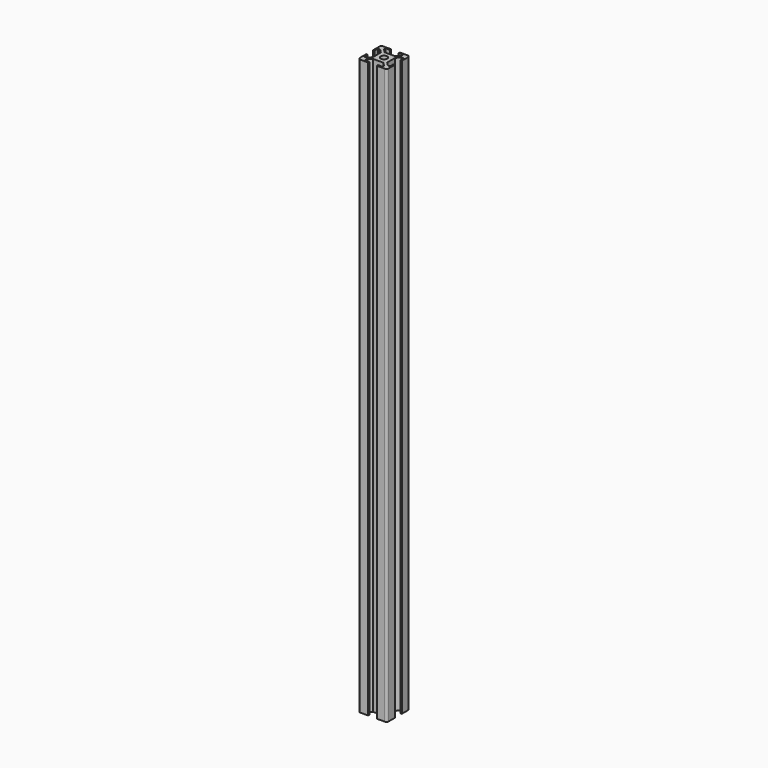
from build123d import *

# Parameters (mm, degrees)
SKETCH_R  = 2.25
PAD_DEPTH = 400
FILLET_R  = 1.5


with BuildPart() as part:
    # Sketch → Pad (new body)
    with BuildSketch(Plane(origin=(0, 0, 0), x_dir=(1, 0, 0), z_dir=(0, 0, -1))):
        Polygon((7, 0), (7, -1), (4, -1), (4, -2.5), (6.499998, -5), (13.500002, -5), (16, -2.5), (16, -1), (13, -1), (13, 0), (20, 0), (20, -7), (19, -7), (19, -4), (17.5, -4), (15.000002, -6.5), (15.000002, -13.500005), (17.5, -16.000005), (19, -16.000005), (19, -13.000005), (20, -13.000005), (20, -20.000005), (13, -20.000005), (13, -19.000005), (16, -19.000005), (16, -17.500005), (13.500002, -15.000005), (6.499998, -15.000005), (4, -17.500005), (4, -19.000005), (7, -19.000005), (7, -20.000005), (0, -20.000005), (0, -13.000005), (1, -13.000005), (1, -16.000005), (2.5, -16.000005), (4.999998, -13.500005), (4.999998, -6.5), (2.5, -4), (1, -4), (1, -7), (0, -7), (0, 0), align=None)
        with Locations((10, -10.000002)):
            Circle(SKETCH_R, mode=Mode.SUBTRACT)
    extrude(amount=PAD_DEPTH)

    # Fillet
    fillet_edges = [part.edges().sort_by_distance(p)[0] for p in [
        (20, 20.000005, -200),
        (20, 0, -200),
        (0, 20.000005, -200),
        (0, 0, -200),
    ]]
    fillet(fillet_edges, radius=FILLET_R)


solid = part.part
